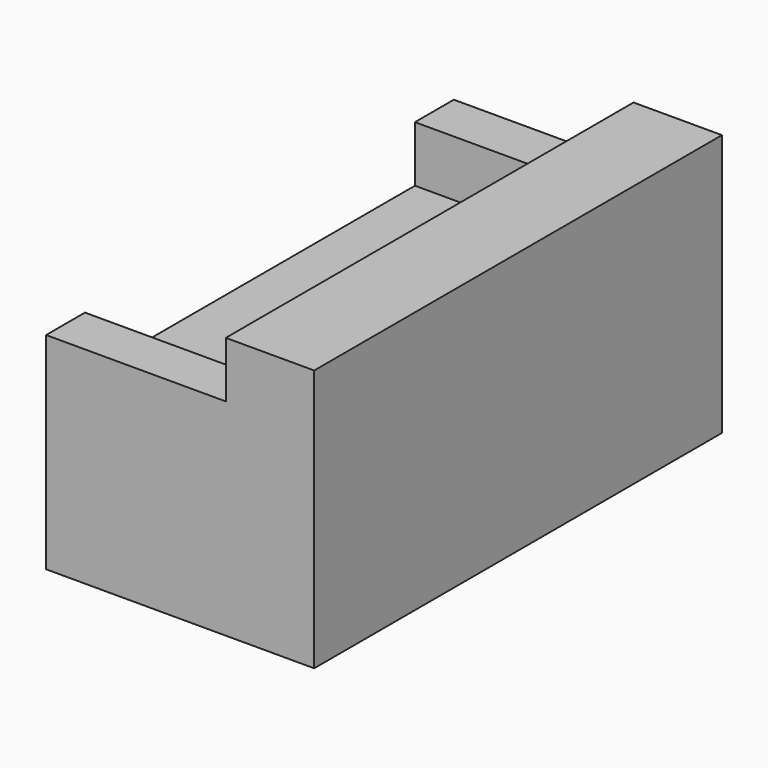
from build123d import *

# Parameters (mm, degrees)
F0_W     = 910
F0_H     = 1730
F1_DEPTH = 890
F2_W     = 1400
F2_H     = 380
F3_DEPTH = 610
F4_W     = 165
F4_H     = 190
F5_DEPTH = 610


with BuildPart() as f1:
    # F0 (on Top) → F1 (new body)
    with BuildSketch(Plane.XY):
        with Locations((10.50148, 0)):
            Rectangle(F0_W, F0_H)
    extrude(amount=F1_DEPTH)

    # F2 (on face) → F3 (cut)
    with BuildSketch(Plane(origin=(-444.49852, 0, 0), x_dir=(0, -1, 0), z_dir=(-1, 0, 0))):
        with Locations((0, 700)):
            Rectangle(F2_W, F2_H)
    extrude(amount=-F3_DEPTH, mode=Mode.SUBTRACT)

    # F4 (on face) → F5 (cut, through all)
    with BuildSketch(Plane(origin=(-444.49852, 0, 0), x_dir=(0, -1, 0), z_dir=(-1, 0, 0))):
        with Locations((-782.5, 795)):
            Rectangle(F4_W, F4_H)
        with Locations((782.5, 795)):
            Rectangle(F4_W, F4_H)
    extrude(amount=-F5_DEPTH, mode=Mode.SUBTRACT)


solid = f1.part
